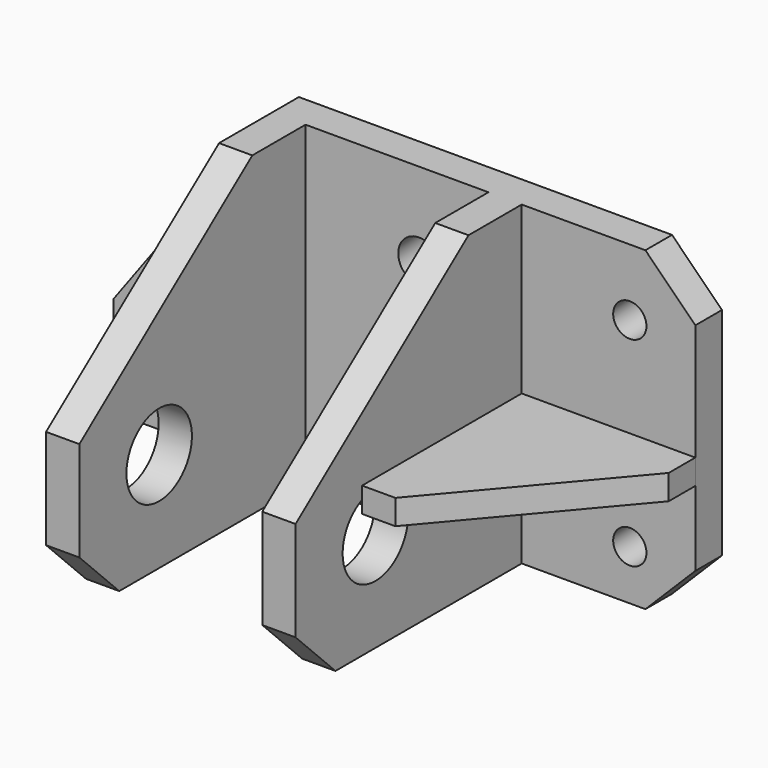
from build123d import *

# Parameters (mm, degrees)
F1_DEPTH  = 12.7
F2_SIZE   = 19.05
F3_R      = 6.35
F3_R_2    = 7.9375
F4_DEPTH  = 25.4
F3_W      = 12.7
F3_H      = 120.65
F5_DEPTH  = 107.95
F6_SIZE   = 19.05
F8_DEPTH  = 193.548
F7_R      = 15.625598
F9_DEPTH  = 161.538807
F3_W_2    = 66.287807
F3_H_2    = 9.525
F10_DEPTH = 76.2
F12_DEPTH = 57.151


with BuildPart() as f1:
    # F0 (on Front) → F1 (new body)
    with BuildSketch(Plane.XZ):
        Polygon((103.08338, 64.568961), (-58.454427, 64.568961), (-119.16662, -17.981039), (-119.16662, -56.081039), (103.08338, -56.081039), align=None)
    extrude(amount=F1_DEPTH)

    # F2
    f2_edges = [f1.edges().sort_by_distance(p)[0] for p in [
        (103.08338, -6.35, -56.081039),
        (103.08338, -6.35, 64.568961),
    ]]
    chamfer(f2_edges, length=F2_SIZE)

    # F3 (on face) → F4 (cut)
    with BuildSketch(Plane.XZ.offset(12.7)):
        with Locations((78.070573, -37.031039)):
            Circle(F3_R)
        with Locations((78.070573, 39.168961)):
            Circle(F3_R)
        with Locations((-2.419149, 32.818961)):
            Circle(F3_R_2)
        with Locations((-10.829427, -43.381039)):
            Circle(F3_R_2)
        with Locations((-106.079427, -43.381039)):
            Circle(F3_R)
    extrude(amount=-F4_DEPTH, mode=Mode.SUBTRACT)

    # F3 (on face) → F5 (join)
    with BuildSketch(Plane.XZ.offset(12.7)):
        with Locations((-52.104427, 4.243961)):
            Rectangle(F3_W, F3_H)
        Polygon((36.795573, 64.568961), (24.095573, 64.568961), (24.095573, -56.081039), (36.795573, -56.081039), (36.795573, -8.456039), (36.795573, 1.068961), align=None)
    extrude(amount=F5_DEPTH)

    # F6
    f6_edges = [f1.edges().sort_by_distance(p)[0] for p in [
        (-52.104427, -120.65, -56.081039),
        (30.445573, -120.65, -56.081039),
    ]]
    chamfer(f6_edges, length=F6_SIZE)

    # F7 (on face) → F8 (cut)
    with BuildSketch(Plane(origin=(-58.454427, 0, 0), x_dir=(0, -1, 0), z_dir=(-1, 0, 0))):
        Polygon((38.1, 64.568961), (120.65, 1.068961), (120.65, 64.568961), align=None)
    extrude(amount=-F8_DEPTH, mode=Mode.SUBTRACT)

    # F7 (on face) → F9 (cut, through all)
    with BuildSketch(Plane(origin=(-58.454427, 0, 0), x_dir=(0, -1, 0), z_dir=(-1, 0, 0))):
        with Locations((82.55, -17.981039)):
            Circle(F7_R)
    extrude(amount=-F9_DEPTH, mode=Mode.SUBTRACT)

    # F3 (on face) → F10 (join)
    with BuildSketch(Plane.XZ.offset(12.7)):
        with Locations((69.939476, -3.693539)):
            Rectangle(F3_W_2, F3_H_2)
    extrude(amount=F10_DEPTH)

    # F11 (on face) → F12 (cut, through all)
    with BuildSketch(Plane.XY.offset(1.068961)):
        Polygon((103.08338, -25.4), (49.495573, -88.9), (103.08338, -88.9), align=None)
    extrude(amount=-F12_DEPTH, mode=Mode.SUBTRACT)


solid = f1.part
